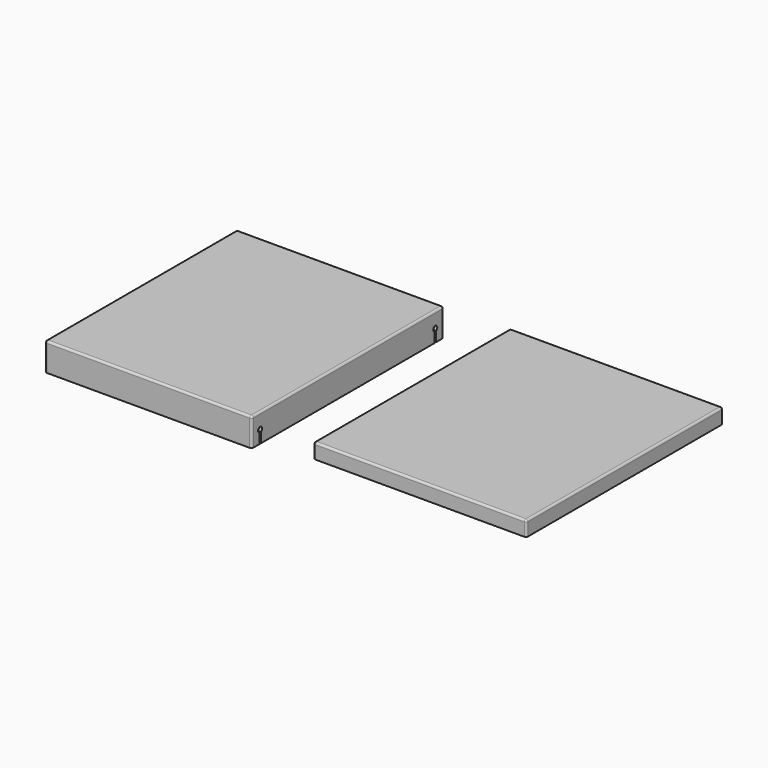
from build123d import *

# Parameters (mm, degrees)
F0_W     = 103
F0_H     = 119.5
F0_W_2   = 100
F0_H_2   = 57.5
F1_DEPTH = 1.5
F0_W_3   = 106
F0_H_3   = 122.5
F2_DEPTH = 12.5
F4_DEPTH = 6
F5_DEPTH = 103.001
F6_R     = 1
F6_2_R   = 1


with BuildPart() as f1:
    # F0 (on Top) → F1 (new body)
    with BuildSketch(Plane.XY):
        with Locations((-38.117450853, 17.4404647723)):
            Rectangle(F0_W, F0_H)
        with Locations((-38.117450853, -12.0595352277)):
            Rectangle(F0_W_2, F0_H_2, mode=Mode.SUBTRACT)
        with Locations((-38.117450853, 46.9404647723)):
            Rectangle(F0_W_2, F0_H_2, mode=Mode.SUBTRACT)
        with Locations((-38.117450853, 46.9404647723)):
            Rectangle(F0_W_2, F0_H_2)
        with Locations((-38.117450853, -12.0595352277)):
            Rectangle(F0_W_2, F0_H_2)
    extrude(amount=F1_DEPTH)

    # F0 (on Top) → F2 (join)
    with BuildSketch(Plane.XY):
        with Locations((-38.117450853, 17.4404647723)):
            Rectangle(F0_W, F0_H)
        with Locations((-38.117450853, -12.0595352277)):
            Rectangle(F0_W_2, F0_H_2, mode=Mode.SUBTRACT)
        with Locations((-38.117450853, 46.9404647723)):
            Rectangle(F0_W_2, F0_H_2, mode=Mode.SUBTRACT)
    extrude(amount=-F2_DEPTH)

    # F3 (on face) → F5 (cut, through all)
    with BuildSketch(Plane.YZ.offset(13.382549147)):
        with BuildLine():
            ThreePointArc((-36.6095352277, -7.4456439237), (-36.0637101945, -6.9846531969), (-35.8595352277, -6.3))
            ThreePointArc((-35.8595352277, -6.3), (-37.7941884246, -5.2541749668), (-37.6095352277, -7.4456439237))
            Line((-37.6095352277, -7.4456439237), (-37.6095352277, -6.3))
            Line((-37.6095352277, -6.3), (-36.6095352277, -6.3))
            Line((-36.6095352277, -6.3), (-36.6095352277, -7.4456439237))
        make_face()
        with BuildLine():
            Line((-37.6095352277, -6.3), (-37.6095352277, -7.4456439237))
            ThreePointArc((-37.6095352277, -7.4456439237), (-37.1095352277, -7.55), (-36.6095352277, -7.4456439237))
            Line((-36.6095352277, -7.4456439237), (-36.6095352277, -6.3))
            Line((-36.6095352277, -6.3), (-37.6095352277, -6.3))
        make_face()
        with BuildLine():
            ThreePointArc((-36.6095352277, -7.4456439237), (-37.1095352277, -7.55), (-37.6095352277, -7.4456439237))
            Line((-37.6095352277, -7.4456439237), (-37.6095352277, -12.5))
            Line((-37.6095352277, -12.5), (-36.6095352277, -12.5))
            Line((-36.6095352277, -12.5), (-36.6095352277, -7.4456439237))
        make_face()
        with BuildLine():
            Line((71.4904647723, -6.3), (71.4904647723, -7.4456439237))
            ThreePointArc((71.4904647723, -7.4456439237), (71.9904647723, -7.55), (72.4904647723, -7.4456439237))
            Line((72.4904647723, -7.4456439237), (72.4904647723, -6.3))
            Line((72.4904647723, -6.3), (71.4904647723, -6.3))
        make_face()
        with BuildLine():
            ThreePointArc((73.2404647723, -6.3), (71.3058115754, -5.2541749668), (71.4904647723, -7.4456439237))
            Line((71.4904647723, -7.4456439237), (71.4904647723, -6.3))
            Line((71.4904647723, -6.3), (72.4904647723, -6.3))
            Line((72.4904647723, -6.3), (72.4904647723, -7.4456439237))
            ThreePointArc((72.4904647723, -7.4456439237), (73.0362898055, -6.9846531969), (73.2404647723, -6.3))
        make_face()
        with BuildLine():
            Line((71.4904647723, -7.4456439237), (71.4904647723, -12.5))
            Line((71.4904647723, -12.5), (72.4904647723, -12.5))
            Line((72.4904647723, -12.5), (72.4904647723, -7.4456439237))
            ThreePointArc((72.4904647723, -7.4456439237), (71.9904647723, -7.55), (71.4904647723, -7.4456439237))
        make_face()
    extrude(amount=-F5_DEPTH, mode=Mode.SUBTRACT)

    # F6
    f6_edges = [f1.edges().sort_by_distance(p)[0] for p in [
        (13.382549, 17.440465, 1.5),
        (-38.117451, 77.190465, 1.5),
        (-89.617451, 17.440465, 1.5),
        (-38.117451, -42.309535, 1.5),
        (13.382549, 77.190465, -5.5),
        (-89.617451, 77.190465, -5.5),
        (13.382549, -42.309535, -5.5),
        (-89.617451, -42.309535, -5.5),
        (-38.117451, -40.809535, 0),
        (-88.117451, -12.059535, 0),
        (-38.117451, 16.690465, 0),
        (11.882549, -12.059535, 0),
        (11.882549, 46.940465, 0),
        (-38.117451, 18.190465, 0),
        (-88.117451, 46.940465, 0),
        (-38.117451, 75.690465, 0),
        (11.882549, 16.690465, -6.25),
        (11.882549, 18.190465, -6.25),
        (-88.117451, -40.809535, -6.25),
        (-88.117451, 18.190465, -6.25),
        (-88.117451, 16.690465, -6.25),
        (-88.117451, 75.690465, -6.25),
        (11.882549, 75.690465, -6.25),
        (11.882549, -40.809535, -6.25),
    ]]
    fillet(f6_edges, radius=F6_R)


with BuildPart() as f1b:
    # F0 (on Top) → F1, piece 2 (new body)
    with BuildSketch(Plane.XY):
        with Locations((98.3865490854, 17.4404647723)):
            Rectangle(F0_W_3, F0_H_3)
        with Locations((98.3865490854, 17.4404647723)):
            Rectangle(F0_W, F0_H, mode=Mode.SUBTRACT)
        with Locations((98.3865490854, 17.4404647723)):
            Rectangle(F0_W, F0_H)
    extrude(amount=F1_DEPTH)

    # F0 (on Top) → F4 (join)
    with BuildSketch(Plane.XY):
        with Locations((98.3865490854, 17.4404647723)):
            Rectangle(F0_W_3, F0_H_3)
        with Locations((98.3865490854, 17.4404647723)):
            Rectangle(F0_W, F0_H, mode=Mode.SUBTRACT)
    extrude(amount=-F4_DEPTH)

    # F6#2
    f6_2_edges = [f1b.edges().sort_by_distance(p)[0] for p in [
        (98.386549, 77.190465, 0),
        (149.886549, 17.440465, 0),
        (98.386549, -42.309535, 0),
        (46.886549, 17.440465, 0),
        (45.386549, 17.440465, 1.5),
        (98.386549, -43.809535, 1.5),
        (151.386549, 17.440465, 1.5),
        (98.386549, 78.690465, 1.5),
        (151.386549, 78.690465, -2.25),
        (45.386549, 78.690465, -2.25),
        (151.386549, -43.809535, -2.25),
        (45.386549, -43.809535, -2.25),
        (46.886549, -42.309535, -3),
        (46.886549, 77.190465, -3),
        (149.886549, 77.190465, -3),
        (149.886549, -42.309535, -3),
    ]]
    fillet(f6_2_edges, radius=F6_2_R)


solid = Compound([f1.part, f1b.part])
